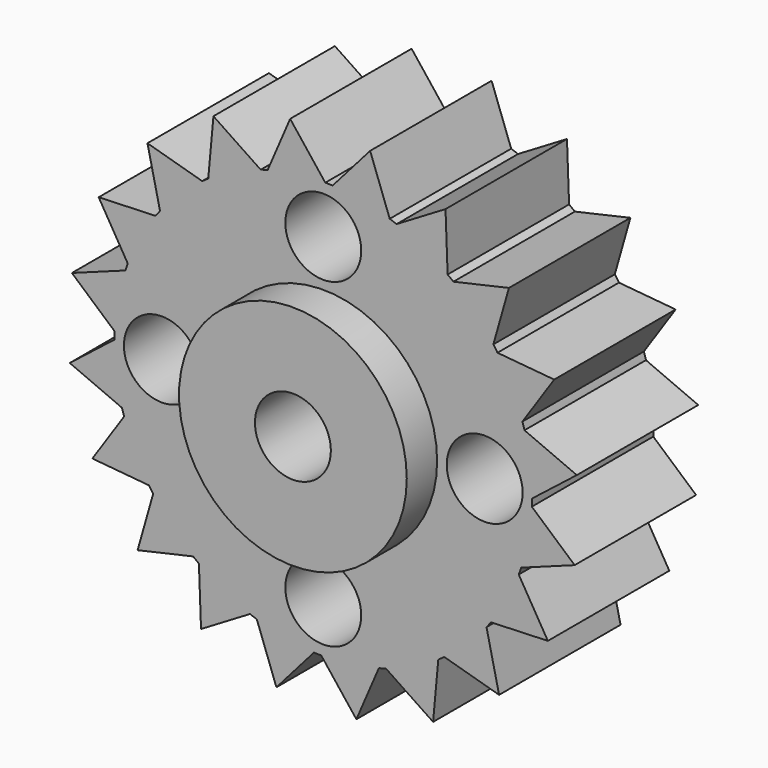
from build123d import *

# Parameters (mm, degrees)
F0_R      = 8.73125
F1_DEPTH  = 3.175
F2_R      = 4.7625
F3_DEPTH  = 1.5875
F4_R      = 1.5875
F5_DEPTH  = 7.9385
F6_R      = 1.5875
F7_DEPTH  = 6.351
F10_DEPTH = 6.35
F11_COUNT = 20


with BuildPart() as f1:
    # F0 (on Front) → F1 (new body, symmetric)
    with BuildSketch(Plane.XZ):
        Circle(F0_R)
    extrude(amount=F1_DEPTH, both=True)

    # F2 (on face) → F3 (join)
    with BuildSketch(Plane.XZ.offset(3.175)):
        Circle(F2_R)
    extrude(amount=F3_DEPTH)

    # F4 (on face) → F5 (cut, through all)
    with BuildSketch(Plane.XZ.offset(4.7625)):
        Circle(F4_R)
    extrude(amount=-F5_DEPTH, mode=Mode.SUBTRACT)

    # F6 (on face) → F7 (cut, through all)
    with BuildSketch(Plane.XZ.offset(3.175)):
        with Locations((0, 6.7137391306)):
            Circle(F6_R)
        with Locations((0, -6.7137391306)):
            Circle(F6_R)
        with Locations((-6.750960571, 0)):
            Circle(F6_R)
        with Locations((6.750960571, 0)):
            Circle(F6_R)
    extrude(amount=-F7_DEPTH, mode=Mode.SUBTRACT)

    # F8: F1 across plane


with BuildPart() as f1_1:
    add(f1.part)
    add(f1.part.mirror(Plane.XZ))



with BuildPart() as f10:
    # F9 (on face) → F10 (new body, through all)
    with BuildSketch(Plane.XZ.offset(3.175)):
        with BuildLine():
            Line((-1.3848210597, 10.604101041), (-2.324559949, 8.4161242627))
            ThreePointArc((-2.324559949, 8.4161242627), (-1.1306393797, 8.6577353364), (0.0852877991, 8.7308334398))
            Line((0.0852877991, 8.7308334398), (-1.3848210597, 10.604101041))
        make_face()
    extrude(amount=-F10_DEPTH)


with BuildPart() as f1_2:
    add(f1_1.part)

    add(f10.part)  # F11 merges F10
    # F11: F10 ×20 about axis
    f11_axis = Axis((0, -3.175, 0), (0, -1, 0))
    for i in range(1, F11_COUNT):
        add(f10.part.rotate(f11_axis, i * 360 / F11_COUNT))


solid = f1_2.part
